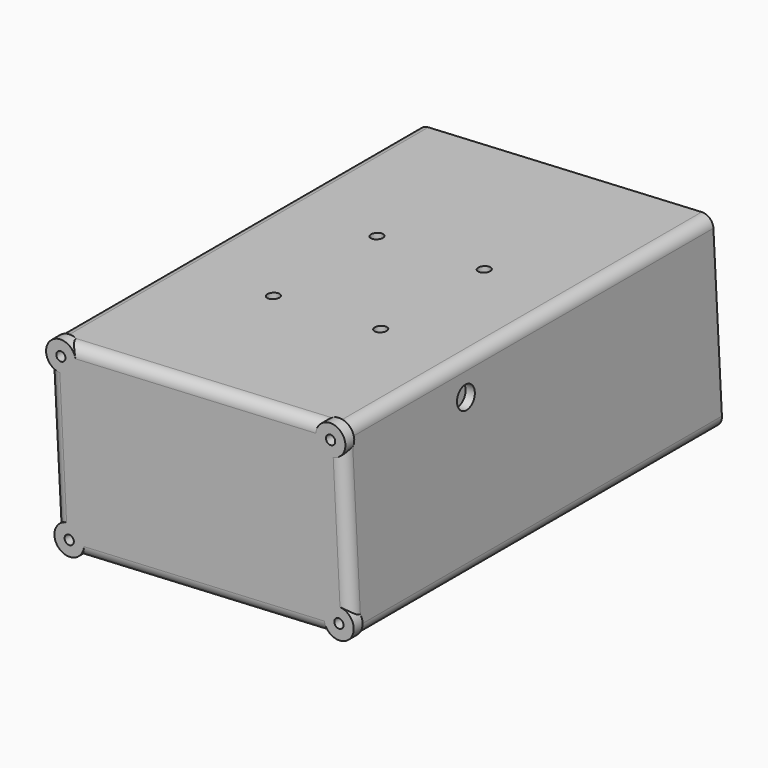
from build123d import *

# Parameters (mm, degrees)
BOX062_W                  = 41
BOX062_H                  = 10
BOX062_DEPTH              = 6
BOX062_PLACEMENT_ANGLE    = 3
CYLINDER135_R             = 1.25
CYLINDER135_DEPTH         = 10
CYLINDER136_R             = 1.25
CYLINDER136_DEPTH         = 10
CYLINDER137_R             = 1.25
CYLINDER137_DEPTH         = 10
CYLINDER134_R             = 1.25
CYLINDER134_DEPTH         = 10
FUSION114_PLACEMENT_ANGLE = 3
CYLINDER132_R             = 4
CYLINDER132_DEPTH         = 3
CYLINDER133_R             = 4
CYLINDER133_DEPTH         = 3
CYLINDER131_R             = 4
CYLINDER131_DEPTH         = 3
CYLINDER130_R             = 4
CYLINDER130_DEPTH         = 3
FUSION112_PLACEMENT_ANGLE = 3
CYLINDER099_R             = 1.6
CYLINDER099_DEPTH         = 15
CYLINDER098_R             = 1.6
CYLINDER098_DEPTH         = 15
CYLINDER101_R             = 1.6
CYLINDER101_DEPTH         = 15
CYLINDER100_R             = 1.6
CYLINDER100_DEPTH         = 15
CYLINDER088_R             = 1.6
CYLINDER088_DEPTH         = 10
CYLINDER089_R             = 1.6
CYLINDER089_DEPTH         = 10
CYLINDER087_R             = 1.6
CYLINDER087_DEPTH         = 10
CYLINDER086_R             = 1.6
CYLINDER086_DEPTH         = 10
CYLINDER085_R             = 3
CYLINDER085_DEPTH         = 10
BOX041_W                  = 2.5
BOX041_H                  = 100
BOX041_DEPTH              = 50
BOX042_W                  = 2.5
BOX042_H                  = 100
BOX042_DEPTH              = 11
BOX043_W                  = 6.5
BOX043_H                  = 100
BOX043_DEPTH              = 2.5
CYLINDER078_R             = 1.25
CYLINDER078_DEPTH         = 10
CYLINDER076_R             = 1.25
CYLINDER076_DEPTH         = 10
CYLINDER080_R             = 1.25
CYLINDER080_DEPTH         = 10
CYLINDER074_R             = 1.25
CYLINDER074_DEPTH         = 10
CYLINDER075_R             = 3
CYLINDER075_DEPTH         = 125
CYLINDER077_R             = 3
CYLINDER077_DEPTH         = 125
CYLINDER079_R             = 3
CYLINDER079_DEPTH         = 125
BOX038_W                  = 80
BOX038_H                  = 5
BOX038_DEPTH              = 50
BOX037_W                  = 75
BOX037_H                  = 120
BOX037_DEPTH              = 45
BOX036_W                  = 80
BOX036_H                  = 130
BOX036_DEPTH              = 50
CYLINDER073_R             = 3
CYLINDER073_DEPTH         = 125
FILLET030_R               = 3
FILLET031_R               = 3
FILLET031_PLACEMENT_ANGLE = 3
CYLINDER106_R             = 3.1
CYLINDER106_DEPTH         = 2
CYLINDER109_R             = 3.1
CYLINDER109_DEPTH         = 2
CYLINDER107_R             = 3.1
CYLINDER107_DEPTH         = 2
CYLINDER108_R             = 3.1
CYLINDER108_DEPTH         = 2


with BuildPart() as cube041:
    # Box062 → Box062 (new body)
    with BuildSketch(Plane.XY):
        with Locations((20.5, 5)):
            Rectangle(BOX062_W, BOX062_H)
    extrude(amount=BOX062_DEPTH)


with BuildPart() as cube041_1:
    # Box062 placement: moved
    add(cube041.part.moved(Location((332, 7, -12.1))).rotate(Axis((332, 7, -12.1), (0, -1, 0)), BOX062_PLACEMENT_ANGLE))


with BuildPart() as cylinder135:
    # Cylinder135 → Cylinder135 (new body)
    with BuildSketch(Plane(origin=(3.5, 96, 46.5), x_dir=(1, 0, 0), z_dir=(0, -1, 0))):
        Circle(CYLINDER135_R)
    extrude(amount=CYLINDER135_DEPTH)


with BuildPart() as cylinder136:
    # Cylinder136 → Cylinder136 (new body)
    with BuildSketch(Plane(origin=(76.5, 96, 46.5), x_dir=(1, 0, 0), z_dir=(0, -1, 0))):
        Circle(CYLINDER136_R)
    extrude(amount=CYLINDER136_DEPTH)


with BuildPart() as cylinder137:
    # Cylinder137 → Cylinder137 (new body)
    with BuildSketch(Plane(origin=(76.5, 96, 3.5), x_dir=(1, 0, 0), z_dir=(0, -1, 0))):
        Circle(CYLINDER137_R)
    extrude(amount=CYLINDER137_DEPTH)


with BuildPart() as fusion114:
    # Cylinder134 → Cylinder134 (new body)
    with BuildSketch(Plane(origin=(3.5, 96, 3.5), x_dir=(1, 0, 0), z_dir=(0, -1, 0))):
        Circle(CYLINDER134_R)
    extrude(amount=CYLINDER134_DEPTH)

    # Fusion114: union Cylinder135, Cylinder136, Cylinder137
    add(cylinder135.part)
    add(cylinder136.part)
    add(cylinder137.part)


with BuildPart() as fusion114_1:
    # Fusion114 placement: moved
    add(fusion114.part.moved(Location((306, -115, -55))).rotate(Axis((306, -115, -55), (0, -1, 0)), FUSION114_PLACEMENT_ANGLE))


with BuildPart() as cylinder132:
    # Cylinder132 → Cylinder132 (new body)
    with BuildSketch(Plane(origin=(3.5, 96, 46.5), x_dir=(1, 0, 0), z_dir=(0, -1, 0))):
        Circle(CYLINDER132_R)
    extrude(amount=CYLINDER132_DEPTH)


with BuildPart() as cylinder133:
    # Cylinder133 → Cylinder133 (new body)
    with BuildSketch(Plane(origin=(76.5, 96, 46.5), x_dir=(1, 0, 0), z_dir=(0, -1, 0))):
        Circle(CYLINDER133_R)
    extrude(amount=CYLINDER133_DEPTH)


with BuildPart() as cylinder131:
    # Cylinder131 → Cylinder131 (new body)
    with BuildSketch(Plane(origin=(76.5, 96, 3.5), x_dir=(1, 0, 0), z_dir=(0, -1, 0))):
        Circle(CYLINDER131_R)
    extrude(amount=CYLINDER131_DEPTH)


with BuildPart() as fusion112:
    # Cylinder130 → Cylinder130 (new body)
    with BuildSketch(Plane(origin=(3.5, 96, 3.5), x_dir=(1, 0, 0), z_dir=(0, -1, 0))):
        Circle(CYLINDER130_R)
    extrude(amount=CYLINDER130_DEPTH)

    # Fusion112: union Cylinder132, Cylinder133, Cylinder131
    add(cylinder132.part)
    add(cylinder133.part)
    add(cylinder131.part)


with BuildPart() as fusion112_1:
    # Fusion112 placement: moved
    add(fusion112.part.moved(Location((306, -122, -55))).rotate(Axis((306, -122, -55), (0, -1, 0)), FUSION112_PLACEMENT_ANGLE))


with BuildPart() as cylinder099:
    # Cylinder099 → Cylinder099 (new body)
    with BuildSketch(Plane(origin=(359.5, 13.5, -15), x_dir=(1, 0, 0), z_dir=(0, 0, 1))):
        Circle(CYLINDER099_R)
    extrude(amount=CYLINDER099_DEPTH)


with BuildPart() as fusion086:
    # Cylinder098 → Cylinder098 (new body)
    with BuildSketch(Plane(origin=(330.5, 13.5, -15), x_dir=(1, 0, 0), z_dir=(0, 0, 1))):
        Circle(CYLINDER098_R)
    extrude(amount=CYLINDER098_DEPTH)

    # Fusion086: union Cylinder099
    add(cylinder099.part)


with BuildPart() as cylinder101:
    # Cylinder101 → Cylinder101 (new body)
    with BuildSketch(Plane(origin=(359.5, 13.5, -15), x_dir=(1, 0, 0), z_dir=(0, 0, 1))):
        Circle(CYLINDER101_R)
    extrude(amount=CYLINDER101_DEPTH)


with BuildPart() as fusion087:
    # Cylinder100 → Cylinder100 (new body)
    with BuildSketch(Plane(origin=(330.5, 13.5, -15), x_dir=(1, 0, 0), z_dir=(0, 0, 1))):
        Circle(CYLINDER100_R)
    extrude(amount=CYLINDER100_DEPTH)

    # Fusion088: union Cylinder101
    add(cylinder101.part)


with BuildPart() as fusion087_1:
    # Fusion088 placement: moved
    add(fusion087.part.moved(Location((0, 35, 0))))

    # Fusion087: union Fusion086
    add(fusion086.part)


with BuildPart() as cylinder088:
    # Cylinder088 → Cylinder088 (new body)
    with BuildSketch(Plane(origin=(0, 62, 11), x_dir=(0, 0, -1), z_dir=(1, 0, 0))):
        Circle(CYLINDER088_R)
    extrude(amount=CYLINDER088_DEPTH)


with BuildPart() as cylinder089:
    # Cylinder089 → Cylinder089 (new body)
    with BuildSketch(Plane(origin=(0, 62, 37), x_dir=(0, 0, -1), z_dir=(1, 0, 0))):
        Circle(CYLINDER089_R)
    extrude(amount=CYLINDER089_DEPTH)


with BuildPart() as cylinder087:
    # Cylinder087 → Cylinder087 (new body)
    with BuildSketch(Plane(origin=(0, 0, 37), x_dir=(0, 0, -1), z_dir=(1, 0, 0))):
        Circle(CYLINDER087_R)
    extrude(amount=CYLINDER087_DEPTH)


with BuildPart() as fusion075:
    # Cylinder086 → Cylinder086 (new body)
    with BuildSketch(Plane(origin=(0, 0, 11), x_dir=(0, 0, -1), z_dir=(1, 0, 0))):
        Circle(CYLINDER086_R)
    extrude(amount=CYLINDER086_DEPTH)

    # Fusion075: union Cylinder088, Cylinder089, Cylinder087
    add(cylinder088.part)
    add(cylinder089.part)
    add(cylinder087.part)


with BuildPart() as cylinder085:
    # Cylinder085 → Cylinder085 (new body)
    with BuildSketch(Plane(origin=(72, 12, 41), x_dir=(0, 0, -1), z_dir=(1, 0, 0))):
        Circle(CYLINDER085_R)
    extrude(amount=CYLINDER085_DEPTH)


with BuildPart() as cube020:
    # Box041 → Box041 (new body)
    with BuildSketch(Plane(origin=(35, -29, 0), x_dir=(1, 0, 0), z_dir=(0, 0, 1))):
        with Locations((1.25, 50)):
            Rectangle(BOX041_W, BOX041_H)
    extrude(amount=BOX041_DEPTH)


with BuildPart() as cube021:
    # Box042 → Box042 (new body)
    with BuildSketch(Plane(origin=(63, -29, 39), x_dir=(1, 0, 0), z_dir=(0, 0, 1))):
        with Locations((1.25, 50)):
            Rectangle(BOX042_W, BOX042_H)
    extrude(amount=BOX042_DEPTH)


with BuildPart() as cube022:
    # Box043 → Box043 (new body)
    with BuildSketch(Plane(origin=(73.5, -29, 25), x_dir=(1, 0, 0), z_dir=(0, 0, 1))):
        with Locations((3.25, 50)):
            Rectangle(BOX043_W, BOX043_H)
    extrude(amount=BOX043_DEPTH)


with BuildPart() as cylinder078:
    # Cylinder078 → Cylinder078 (new body)
    with BuildSketch(Plane(origin=(76.5, 96, 46.5), x_dir=(1, 0, 0), z_dir=(0, -1, 0))):
        Circle(CYLINDER078_R)
    extrude(amount=CYLINDER078_DEPTH)


with BuildPart() as cylinder076:
    # Cylinder076 → Cylinder076 (new body)
    with BuildSketch(Plane(origin=(76.5, 96, 3.5), x_dir=(1, 0, 0), z_dir=(0, -1, 0))):
        Circle(CYLINDER076_R)
    extrude(amount=CYLINDER076_DEPTH)


with BuildPart() as cylinder080:
    # Cylinder080 → Cylinder080 (new body)
    with BuildSketch(Plane(origin=(3.5, 96, 46.5), x_dir=(1, 0, 0), z_dir=(0, -1, 0))):
        Circle(CYLINDER080_R)
    extrude(amount=CYLINDER080_DEPTH)


with BuildPart() as fusion072:
    # Cylinder074 → Cylinder074 (new body)
    with BuildSketch(Plane(origin=(3.5, 96, 3.5), x_dir=(1, 0, 0), z_dir=(0, -1, 0))):
        Circle(CYLINDER074_R)
    extrude(amount=CYLINDER074_DEPTH)

    # Fusion072: union Cylinder078, Cylinder076, Cylinder080
    add(cylinder078.part)
    add(cylinder076.part)
    add(cylinder080.part)


with BuildPart() as cylinder075:
    # Cylinder075 → Cylinder075 (new body)
    with BuildSketch(Plane(origin=(76.5, 96, 3.5), x_dir=(1, 0, 0), z_dir=(0, -1, 0))):
        Circle(CYLINDER075_R)
    extrude(amount=CYLINDER075_DEPTH)


with BuildPart() as cylinder077:
    # Cylinder077 → Cylinder077 (new body)
    with BuildSketch(Plane(origin=(76.5, 96, 46.5), x_dir=(1, 0, 0), z_dir=(0, -1, 0))):
        Circle(CYLINDER077_R)
    extrude(amount=CYLINDER077_DEPTH)


with BuildPart() as cylinder079:
    # Cylinder079 → Cylinder079 (new body)
    with BuildSketch(Plane(origin=(3.5, 96, 46.5), x_dir=(1, 0, 0), z_dir=(0, -1, 0))):
        Circle(CYLINDER079_R)
    extrude(amount=CYLINDER079_DEPTH)


with BuildPart() as cube017:
    # Box038 → Box038 (new body)
    with BuildSketch(Plane(origin=(0, 96, 0), x_dir=(1, 0, 0), z_dir=(0, 0, 1))):
        with Locations((40, 2.5)):
            Rectangle(BOX038_W, BOX038_H)
    extrude(amount=BOX038_DEPTH)


with BuildPart() as cube016:
    # Box037 → Box037 (new body)
    with BuildSketch(Plane(origin=(2.5, -24, 2.5), x_dir=(1, 0, 0), z_dir=(0, 0, 1))):
        with Locations((37.5, 60)):
            Rectangle(BOX037_W, BOX037_H)
    extrude(amount=BOX037_DEPTH)


with BuildPart() as cut043:
    # Box036 → Box036 (new body)
    with BuildSketch(Plane(origin=(0, -29, 0), x_dir=(1, 0, 0), z_dir=(0, 0, 1))):
        with Locations((40, 65)):
            Rectangle(BOX036_W, BOX036_H)
    extrude(amount=BOX036_DEPTH)

    # Cut042: cut Cube016
    add(cube016.part, mode=Mode.SUBTRACT)

    # Cut043: cut Cube017
    add(cube017.part, mode=Mode.SUBTRACT)


with BuildPart() as fillet031:
    # Cylinder073 → Cylinder073 (new body)
    with BuildSketch(Plane(origin=(3.5, 96, 3.5), x_dir=(1, 0, 0), z_dir=(0, -1, 0))):
        Circle(CYLINDER073_R)
    extrude(amount=CYLINDER073_DEPTH)

    # Fusion071: union Cylinder075, Cylinder077, Cylinder079, Cut043
    add(cylinder075.part)
    add(cylinder077.part)
    add(cylinder079.part)
    add(cut043.part)

    # Cut044: cut Fusion072
    add(fusion072.part, mode=Mode.SUBTRACT)

    # Fusion074: union Cube020, Cube021, Cube022
    add(cube020.part)
    add(cube021.part)
    add(cube022.part)

    # Cut045: cut Cylinder085
    add(cylinder085.part, mode=Mode.SUBTRACT)

    # Cut046: cut Fusion075
    add(fusion075.part, mode=Mode.SUBTRACT)

    # Fillet030
    fillet030_edges = [fillet031.edges().sort_by_distance(p)[0] for p in [
        (0, 33.5, 50),
        (0, 33.5, 0),
        (80, 33.5, 50),
        (80, 33.5, 0),
    ]]
    fillet(fillet030_edges, radius=FILLET030_R)

    # Fillet031
    fillet031_edges = [fillet031.edges().sort_by_distance(p)[0] for p in [
        (0, -29, 25),
        (40, -29, 0),
        (80, -29, 25),
        (40, -29, 50),
    ]]
    fillet(fillet031_edges, radius=FILLET031_R)


with BuildPart() as fillet031_1:
    # Fillet031 placement: moved
    add(fillet031.part.moved(Location((306, 0, -55))).rotate(Axis((306, 0, -55), (0, -1, 0)), FILLET031_PLACEMENT_ANGLE))


with BuildPart() as cylinder106:
    # Cylinder106 → Cylinder106 (new body)
    with BuildSketch(Plane(origin=(330.5, 13.5, -12), x_dir=(1, 0, 0), z_dir=(0, 0, 1))):
        Circle(CYLINDER106_R)
    extrude(amount=CYLINDER106_DEPTH)


with BuildPart() as fusion092:
    # Cylinder109 → Cylinder109 (new body)
    with BuildSketch(Plane(origin=(330.5, 48.5, -12), x_dir=(1, 0, 0), z_dir=(0, 0, 1))):
        Circle(CYLINDER109_R)
    extrude(amount=CYLINDER109_DEPTH)

    # Fusion092: union Cylinder106
    add(cylinder106.part)


with BuildPart() as fusion092_1:
    # Fusion092 placement: moved
    add(fusion092.part.moved(Location((0, 0, 6))))


with BuildPart() as cylinder107:
    # Cylinder107 → Cylinder107 (new body)
    with BuildSketch(Plane(origin=(359.5, 13.5, -11), x_dir=(1, 0, 0), z_dir=(0, 0, 1))):
        Circle(CYLINDER107_R)
    extrude(amount=CYLINDER107_DEPTH)


with BuildPart() as battery_box:
    # Cylinder108 → Cylinder108 (new body)
    with BuildSketch(Plane(origin=(359.5, 48.5, -11), x_dir=(1, 0, 0), z_dir=(0, 0, 1))):
        Circle(CYLINDER108_R)
    extrude(amount=CYLINDER108_DEPTH)

    # Fusion093: union Cylinder107
    add(cylinder107.part)


with BuildPart() as battery_box_1:
    # Fusion093 placement: moved
    add(battery_box.part.moved(Location((0, 0, 6.5))))

    # Fusion094: union Fusion092
    add(fusion092_1.part)

    # Fusion109: union Fillet031
    add(fillet031_1.part)

    # Cut068: cut Fusion087
    add(fusion087_1.part, mode=Mode.SUBTRACT)

    # Fusion113: union Fusion112
    add(fusion112_1.part)

    # Cut070: cut Fusion114
    add(fusion114_1.part, mode=Mode.SUBTRACT)

    # Cut072: cut Cube041
    add(cube041_1.part, mode=Mode.SUBTRACT)


with BuildPart() as battery_box_2:
    # Cut072 placement: moved
    add(battery_box_1.part.moved(Location((0, -5, 0))))


solid = battery_box_2.part
